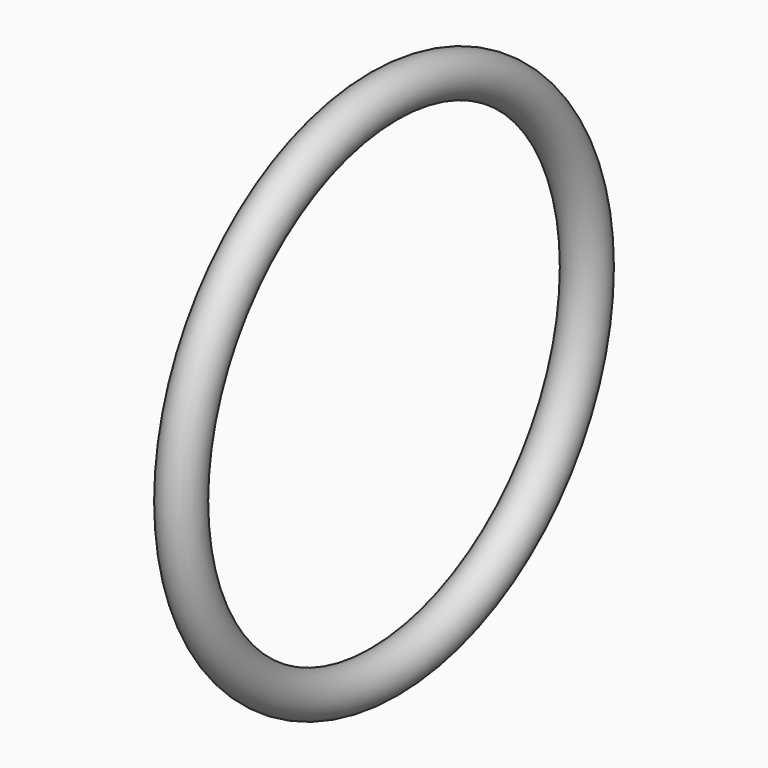
from build123d import *

# Parameters (mm, degrees)
F0_R = 6.35


with BuildPart() as f2:
    # F2: sweep along a path in F1
    with BuildLine(Plane.YZ) as f2_path:
        CenterArc((0, 0), 76.2, 0, 360)
    # F0 (on Front) → F2 (sweep)
    with BuildSketch(Plane.XZ):
        with Locations((0, 76.2)):
            Circle(F0_R)
    sweep(path=f2_path.line)


solid = f2.part
